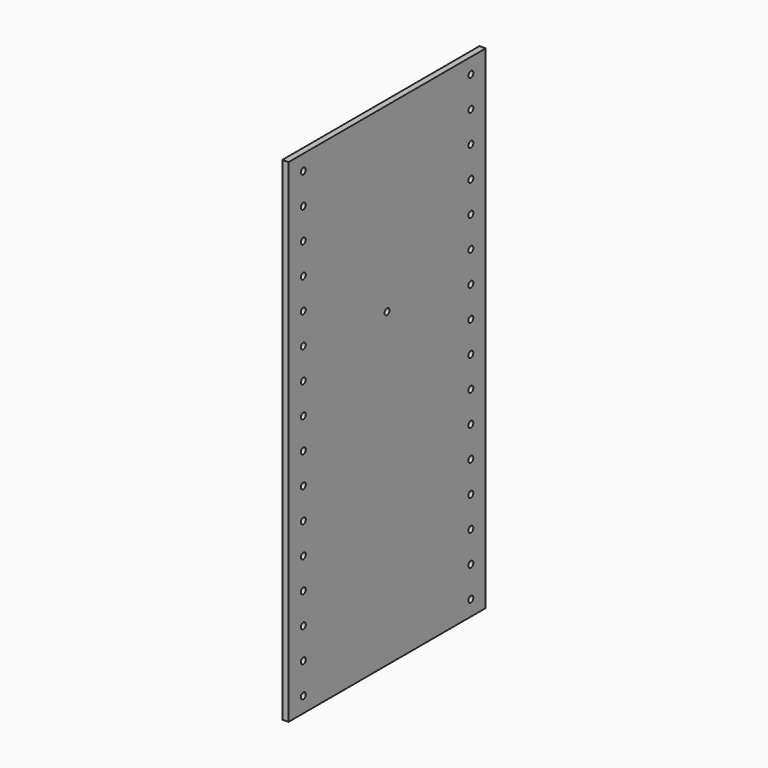
from build123d import *

# Parameters (mm, degrees)
F0_W     = 101.6
F0_H     = 203.2
F1_DEPTH = 2.54
F2_R     = 1.27
F3_DEPTH = 25.4
F4_R     = 1.27
F5_DEPTH = 25.4


with BuildPart() as f1:
    # F0 (on Right) → F1 (new body)
    with BuildSketch(Plane.YZ):
        with Locations((-160.783503, 101.6)):
            Rectangle(F0_W, F0_H)
    extrude(amount=F1_DEPTH)

    # F2 (on face) → F3 (cut)
    with BuildSketch(Plane.YZ.offset(2.54)):
        with Locations((-203.963503, 107.95)):
            Circle(F2_R)
        with Locations((-203.963503, 120.65)):
            Circle(F2_R)
        with Locations((-203.963503, 133.35)):
            Circle(F2_R)
        with Locations((-203.963503, 146.05)):
            Circle(F2_R)
        with Locations((-117.603503, 120.65)):
            Circle(F2_R)
        with Locations((-117.603503, 146.05)):
            Circle(F2_R)
        with Locations((-117.603503, 95.25)):
            Circle(F2_R)
        with Locations((-117.603503, 184.15)):
            Circle(F2_R)
        with Locations((-117.603503, 69.85)):
            Circle(F2_R)
        with Locations((-117.603503, 19.05)):
            Circle(F2_R)
        with Locations((-117.603503, 158.75)):
            Circle(F2_R)
        with Locations((-117.603503, 107.95)):
            Circle(F2_R)
        with Locations((-117.603503, 31.75)):
            Circle(F2_R)
        with Locations((-203.963503, 196.85)):
            Circle(F2_R)
        with Locations((-203.963503, 171.45)):
            Circle(F2_R)
        with Locations((-203.963503, 184.15)):
            Circle(F2_R)
        with Locations((-203.963503, 19.05)):
            Circle(F2_R)
        with Locations((-203.963503, 31.75)):
            Circle(F2_R)
        with Locations((-203.963503, 44.45)):
            Circle(F2_R)
        with Locations((-203.963503, 57.15)):
            Circle(F2_R)
        with Locations((-203.963503, 69.85)):
            Circle(F2_R)
        with Locations((-203.963503, 82.55)):
            Circle(F2_R)
        with Locations((-203.963503, 95.25)):
            Circle(F2_R)
        with Locations((-117.603503, 196.85)):
            Circle(F2_R)
        with Locations((-203.963503, 158.75)):
            Circle(F2_R)
        with Locations((-117.603503, 44.45)):
            Circle(F2_R)
        with Locations((-117.603503, 82.55)):
            Circle(F2_R)
        with Locations((-117.603503, 133.35)):
            Circle(F2_R)
        with Locations((-117.603503, 171.45)):
            Circle(F2_R)
        with Locations((-117.603503, 57.15)):
            Circle(F2_R)
        with Locations((-117.603503, 6.35)):
            Circle(F2_R)
        with BuildLine():
            ThreePointArc((-202.693503, 6.35), (-204.861528, 7.248026), (-203.963503, 5.08))
            ThreePointArc((-203.963503, 5.08), (-203.065477, 5.451974), (-202.693503, 6.35))
        make_face()
    extrude(amount=-F3_DEPTH, mode=Mode.SUBTRACT)

    # F4 (on face) → F5 (cut)
    with BuildSketch(Plane(origin=(0, 0, 0), x_dir=(0, -1, 0), z_dir=(-1, 0, 0))):
        with Locations((160.812638, 128.27)):
            Circle(F4_R)
    extrude(amount=-F5_DEPTH, mode=Mode.SUBTRACT)


solid = f1.part
